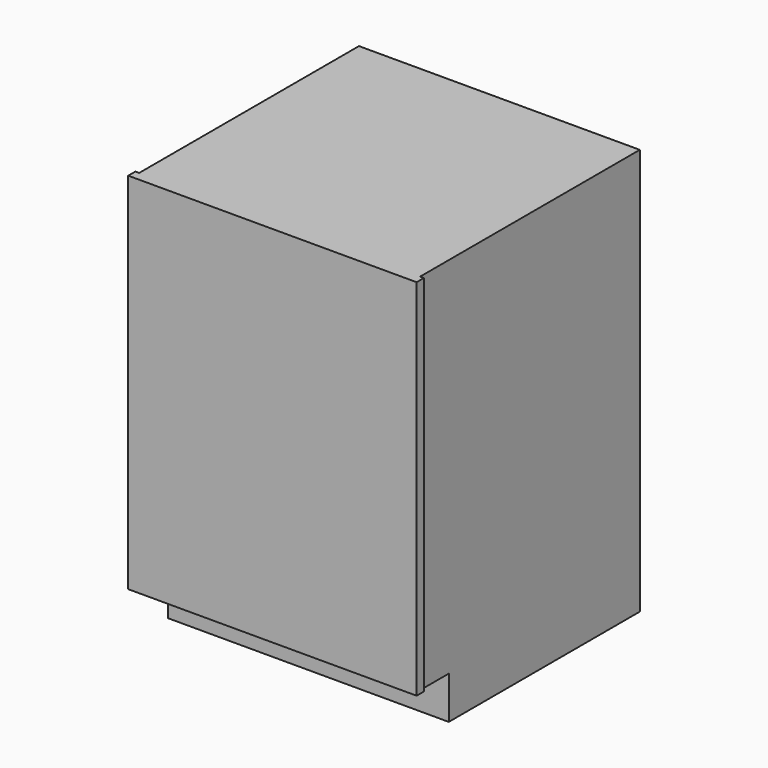
from build123d import *

# Parameters (mm, degrees)
F0_W     = 594
F0_H     = 860
F1_DEPTH = 600
F2_W     = 8
F2_H     = 860
F3_DEPTH = 19
F4_W     = 610
F4_H     = 90
F5_DEPTH = 95


with BuildPart() as f1:
    # F0 (on Front) → F1 (new body)
    with BuildSketch(Plane.XZ):
        with Locations((297, 430)):
            Rectangle(F0_W, F0_H)
    extrude(amount=F1_DEPTH)

    # F2 (on face) → F3 (join)
    with BuildSketch(Plane.XZ.offset(600)):
        with Locations((-4, 430)):
            Rectangle(F2_W, F2_H)
        with Locations((598, 430)):
            Rectangle(F2_W, F2_H)
    extrude(amount=-F3_DEPTH)

    # F4 (on face) → F5 (cut)
    with BuildSketch(Plane.XZ.offset(600)):
        with Locations((297, 45)):
            Rectangle(F4_W, F4_H)
    extrude(amount=-F5_DEPTH, mode=Mode.SUBTRACT)


solid = f1.part
